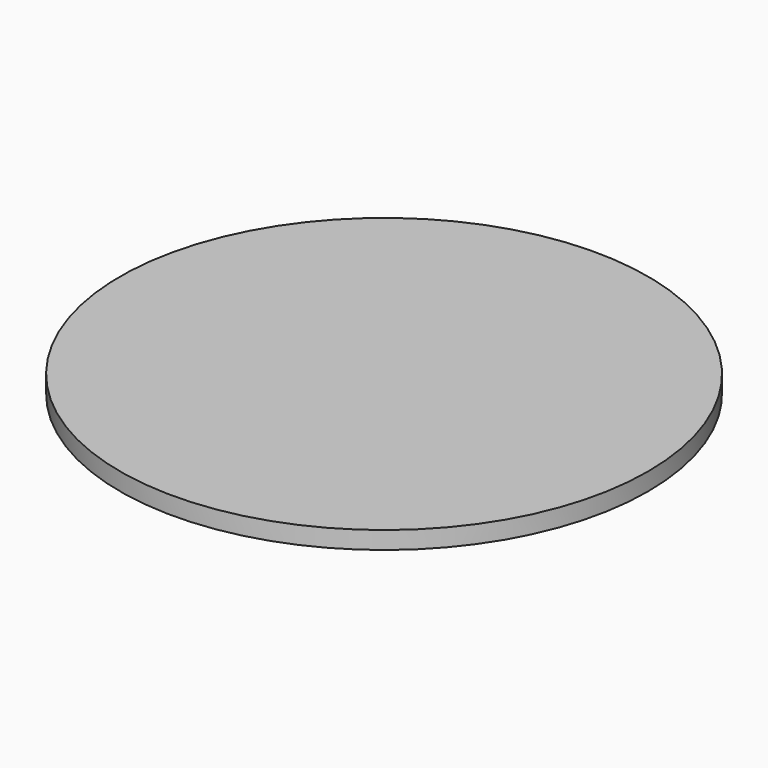
from build123d import *

# Parameters (mm, degrees)
F0_R     = 381
F1_DEPTH = 25.4
F2_R     = 12.7
F3_DEPTH = 2.54


with BuildPart() as f1:
    # F0 (on Top) → F1 (new body)
    with BuildSketch(Plane.XY):
        Circle(F0_R)
    extrude(amount=F1_DEPTH)

    # F2 (on face) → F3 (cut)
    with BuildSketch(Plane(origin=(0, 0, 0), x_dir=(1, 0, 0), z_dir=(0, 0, -1))):
        with Locations((0, 342.9)):
            Circle(F2_R)
        with Locations((-296.960111, -171.45)):
            Circle(F2_R)
        with Locations((296.960111, -171.45)):
            Circle(F2_R)
    extrude(amount=-F3_DEPTH, mode=Mode.SUBTRACT)


solid = f1.part
